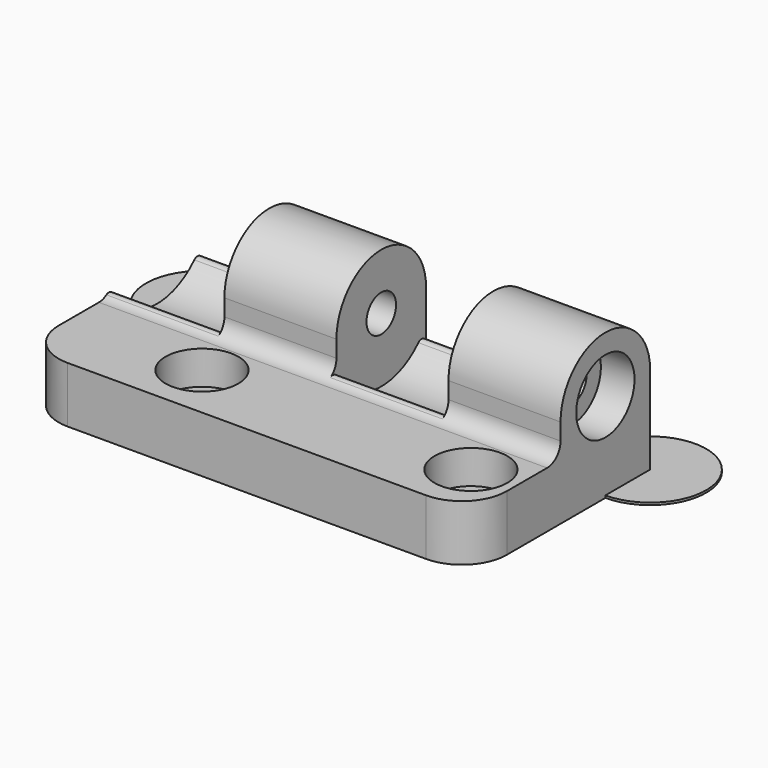
from build123d import *

# Parameters (mm, degrees)
F1_DEPTH       = 5
F3_D           = 3.3
F3_CBORE_D     = 6.5
F3_CBORE_DEPTH = 3
F5_DEPTH       = 40
F6_R           = 1.5
F8_D           = 3.3
F8_CBORE_D     = 6.5
F8_CBORE_DEPTH = 3
F10_R          = 5.75
F11_DEPTH      = 10
F13_R          = 5.75
F14_DEPTH      = 10.001
F15_R          = 0.5
F16_R          = 5
F17_DEPTH      = 0.2


with BuildPart() as f1:
    # F0 (on Top) → F1 (new body)
    with BuildSketch(Plane.XY):
        with BuildLine():
            ThreePointArc((0, 4), (1.1715728753, 1.1715728753), (4, 0))
            Line((4, 0), (36, 0))
            ThreePointArc((36, 0), (38.8284271247, 1.1715728753), (40, 4))
            Line((40, 4), (40, 14))
            Line((40, 14), (0, 14))
            Line((0, 14), (0, 4))
        make_face()
    extrude(amount=F1_DEPTH)

    # F3 (through all)
    with Locations(Plane.XY.offset(5)):
        with Locations((12, 5), (36, 5)):
            CounterBoreHole(F3_D / 2, F3_CBORE_D / 2, F3_CBORE_DEPTH)

    # F4 (on Right) → F5 (join)
    with BuildSketch(Plane.YZ):
        with BuildLine():
            Line((10, 8), (10, 0))
            Line((10, 0), (20, 0))
            Line((20, 0), (20, 8))
            ThreePointArc((20, 8), (15, 13), (10, 8))
        make_face()
    extrude(amount=F5_DEPTH)

    # F6
    f6_edges = [f1.edges().sort_by_distance(p)[0] for p in [
        (20, 10, 5),
    ]]
    fillet(f6_edges, radius=F6_R)

    # F8 (through all)
    with Locations(Plane.YZ.offset(40)):
        with Locations((15, 8)):
            CounterBoreHole(F8_D / 2, F8_CBORE_D / 2, F8_CBORE_DEPTH)

    # F10 (on offset) → F11 (cut)
    with BuildSketch(Plane.YZ.offset(30)):
        with Locations((15, 8)):
            Circle(F10_R)
    extrude(amount=-F11_DEPTH, mode=Mode.SUBTRACT)

    # F13 (on offset) → F14 (cut, through all)
    with BuildSketch(Plane.YZ.offset(10)):
        with Locations((15, 8)):
            Circle(F13_R)
    extrude(amount=-F14_DEPTH, mode=Mode.SUBTRACT)

    # F15
    f15_edges = [f1.edges().sort_by_distance(p)[0] for p in [
        (5, 9.745712, 5.664415),
        (5, 20, 5.160546),
        (25, 20, 5.160546),
        (25, 9.745712, 5.664415),
    ]]
    fillet(f15_edges, radius=F15_R)

    # F16 (on Top) → F17 (join)
    with BuildSketch(Plane.XY):
        with Locations((0, 20)):
            Circle(F16_R)
        with Locations((40, 20)):
            Circle(F16_R)
    extrude(amount=F17_DEPTH)


solid = f1.part
